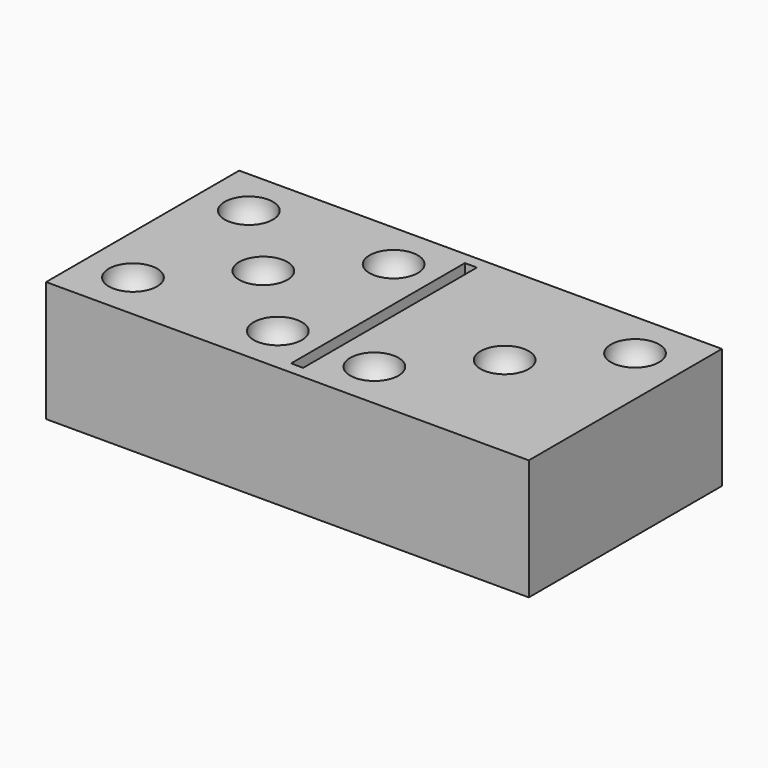
from build123d import *

# Parameters (mm, degrees)
ARRAY_X_COUNT = 2
ARRAY_X_PITCH = 12
ARRAY_Y_COUNT = 2
ARRAY_Y_PITCH = 12
BOX001_W      = 1
BOX001_H      = 18
BOX001_DEPTH  = 10
BOX_W         = 40
BOX_H         = 20
BOX_DEPTH     = 10


with BuildPart() as esfera004:
    # Sphere004 → Sphere004 (revolve)
    with BuildSketch(Plane(origin=(36, 16, 10), x_dir=(1, 0, 0), z_dir=(0, -1, 0))):
        with BuildLine():
            ThreePointArc((0, -2), (2, 0), (0, 2))
            Line((0, 2), (0, -2))
        make_face()
    revolve(axis=Axis((36, 16, 10), (0, 0, 1)))


with BuildPart() as esfera003:
    # Sphere003 → Sphere003 (revolve)
    with BuildSketch(Plane(origin=(30, 10, 10), x_dir=(1, 0, 0), z_dir=(0, -1, 0))):
        with BuildLine():
            ThreePointArc((0, -2), (2, 0), (0, 2))
            Line((0, 2), (0, -2))
        make_face()
    revolve(axis=Axis((30, 10, 10), (0, 0, 1)))


with BuildPart() as esfera002:
    # Sphere002 → Sphere002 (revolve)
    with BuildSketch(Plane(origin=(24, 4, 10), x_dir=(1, 0, 0), z_dir=(0, -1, 0))):
        with BuildLine():
            ThreePointArc((0, -2), (2, 0), (0, 2))
            Line((0, 2), (0, -2))
        make_face()
    revolve(axis=Axis((24, 4, 10), (0, 0, 1)))


with BuildPart() as esfera001:
    # Sphere001 → Sphere001 (revolve)
    with BuildSketch(Plane(origin=(10, 10, 10), x_dir=(1, 0, 0), z_dir=(0, -1, 0))):
        with BuildLine():
            ThreePointArc((0, -2), (2, 0), (0, 2))
            Line((0, 2), (0, -2))
        make_face()
    revolve(axis=Axis((10, 10, 10), (0, 0, 1)))


with BuildPart() as array:
    # Sphere → Sphere (revolve)
    with BuildSketch(Plane(origin=(4, 4, 10), x_dir=(1, 0, 0), z_dir=(0, -1, 0))):
        with BuildLine():
            ThreePointArc((0, -2), (2, 0), (0, 2))
            Line((0, 2), (0, -2))
        make_face()
    revolve(axis=Axis((4, 4, 10), (0, 0, 1)))

    # Array X: Array ×2


with BuildPart() as array_1:
    add(array.part)
    with Locations(*[(i * ARRAY_X_PITCH, 0, 0) for i in range(1, ARRAY_X_COUNT)]):
        add(array.part)

    # Array Y: Array ×2


with BuildPart() as array_2:
    add(array_1.part)
    with Locations(*[(0, i * ARRAY_Y_PITCH, 0) for i in range(1, ARRAY_Y_COUNT)]):
        add(array_1.part)


with BuildPart() as obj1:
    # Box001 → Box001 (new body)
    with BuildSketch(Plane(origin=(19.5, 1, 8), x_dir=(1, 0, 0), z_dir=(0, 0, 1))):
        with Locations((0.5, 9)):
            Rectangle(BOX001_W, BOX001_H)
    extrude(amount=BOX001_DEPTH)


with BuildPart() as cut005:
    # Box → Box (new body)
    with BuildSketch(Plane.XY):
        with Locations((20, 10)):
            Rectangle(BOX_W, BOX_H)
    extrude(amount=BOX_DEPTH)

    # Cut: cut obj1
    add(obj1.part, mode=Mode.SUBTRACT)

    # Cut001: cut Array
    add(array_2.part, mode=Mode.SUBTRACT)

    # Cut002: cut Esfera001
    add(esfera001.part, mode=Mode.SUBTRACT)

    # Cut003: cut Esfera002
    add(esfera002.part, mode=Mode.SUBTRACT)

    # Cut004: cut Esfera003
    add(esfera003.part, mode=Mode.SUBTRACT)

    # Cut005: cut Esfera004
    add(esfera004.part, mode=Mode.SUBTRACT)


solid = cut005.part
